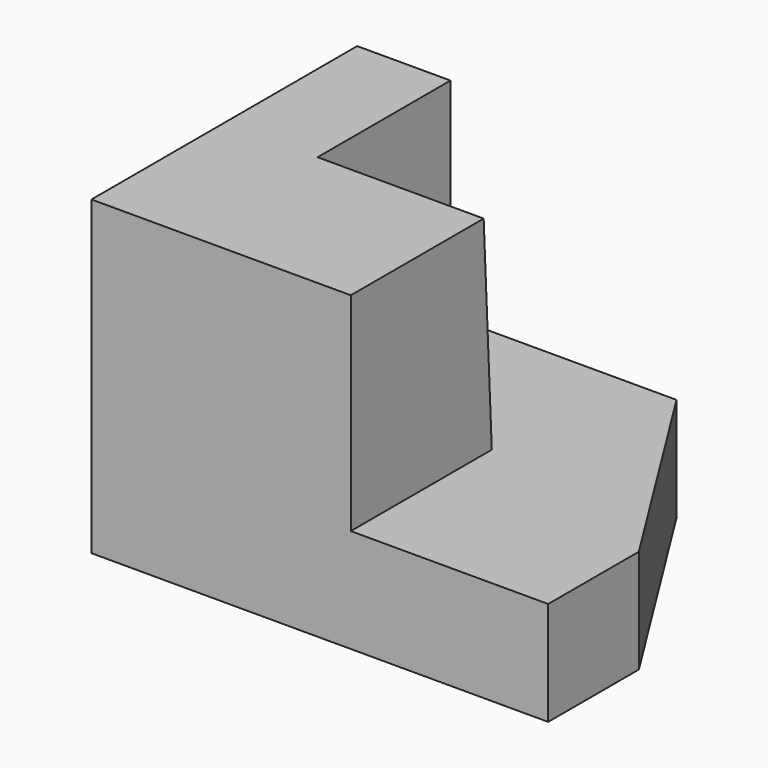
from build123d import *

# Parameters (mm, degrees)
F0_W     = 2794
F0_H     = 1016
F2_DEPTH = 635
F3_W     = 570.535608
F3_H     = 1016
F4_DEPTH = 1270
F5_DEPTH = 1016
F7_DEPTH = 1016
F9_DEPTH = 2540


with BuildPart() as f2:
    # F0 (on Top) → F2 (new body)
    with BuildSketch(Plane.XY):
        with Locations((-1319.062017, 445.828477)):
            Rectangle(F0_W, F0_H)
    extrude(amount=F2_DEPTH)

    # F3 (on face) → F4 (join)
    with BuildSketch(Plane.XY.offset(635)):
        with Locations((-2430.794213, 445.828477)):
            Rectangle(F3_W, F3_H)
    extrude(amount=F4_DEPTH)

    # F4_face (on face) → F5 (join)
    with BuildSketch(Plane(origin=(-1641.436261, -62.171523, 593.700931), x_dir=(1, 0, 0), z_dir=(0, -1, 0))):
        Polygon((-1074.625756, 1311.299069), (-1074.625756, -593.700931), (1719.374244, -593.700931), (1719.374244, 41.299069), (-504.090148, 41.299069), (-504.090148, 1311.299069), align=None)
    extrude(amount=F5_DEPTH)

    # F6 (on face) → F7 (join)
    with BuildSketch(Plane.YZ.offset(-2145.526409)):
        Polygon((0, 635), (-62.171523, 1905), (-1078.171523, 1905), (-1078.171523, 635), align=None)
    extrude(amount=F7_DEPTH)

    # F8 (on face) → F9 (cut)
    with BuildSketch(Plane.XY.offset(635)):
        Polygon((77.937983, 953.828477), (-762.422621, 953.828477), (77.937983, -385.046184), align=None)
    extrude(amount=-F9_DEPTH, mode=Mode.SUBTRACT)


solid = f2.part
